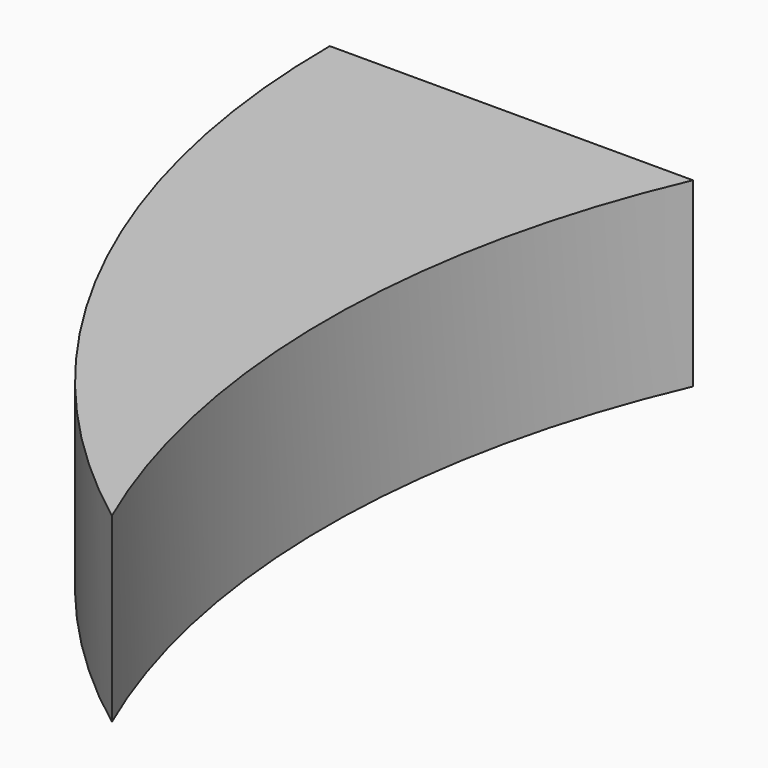
from build123d import *

# Parameters (mm, degrees)
F1_DEPTH = 10


with BuildPart() as f1:
    # F0 (on Top) → F1 (new body)
    with BuildSketch(Plane.XY):
        with BuildLine():
            ThreePointArc((0, 0), (-4.174243, 20), (0, 40))
            Line((0, 40), (-20, 40))
            ThreePointArc((-20, 40), (-14.72136, 17.63932), (0, 0))
        make_face()
    extrude(amount=F1_DEPTH)


solid = f1.part
